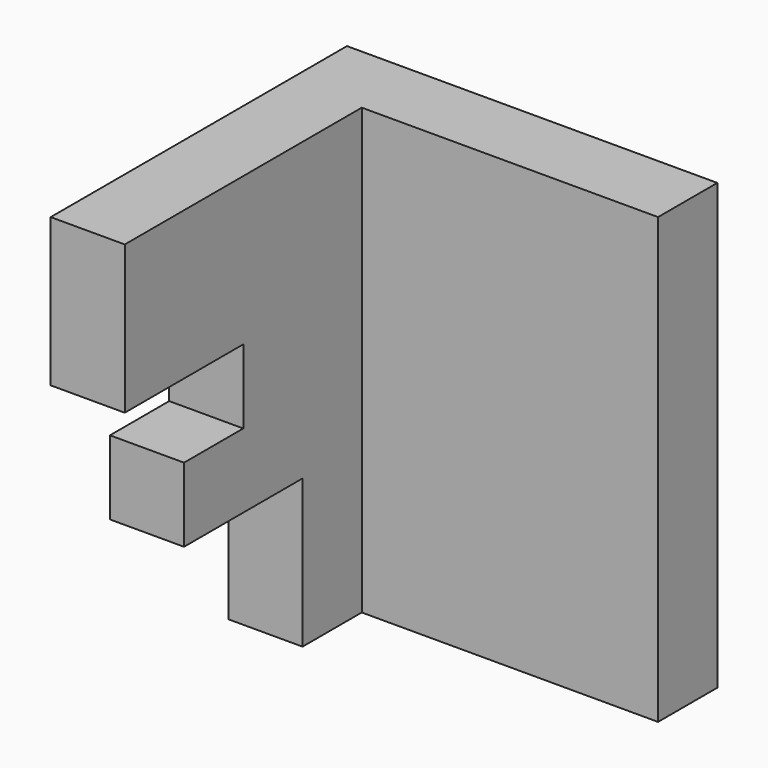
from build123d import *

# Parameters (mm, degrees)
F1_DEPTH = 12.7
F2_W     = 12.7
F2_H     = 76.2
F3_DEPTH = 50.8


with BuildPart() as f1:
    # F0 (on Right) → F1 (new body)
    with BuildSketch(Plane.YZ):
        Polygon((-39.368468, -63.904482), (-13.968468, -63.904482), (-13.968468, 12.295518), (-77.468468, 12.295518), (-77.468468, -13.104482), (-52.068468, -13.104482), (-52.068468, -25.804482), (-64.768468, -25.804482), (-64.768468, -38.504482), (-39.368468, -38.504482), align=None)
    extrude(amount=F1_DEPTH)

    # F2 (on face) → F3 (join)
    with BuildSketch(Plane.YZ.offset(12.7)):
        with Locations((-20.318468, -25.804482)):
            Rectangle(F2_W, F2_H)
    extrude(amount=F3_DEPTH)


solid = f1.part
